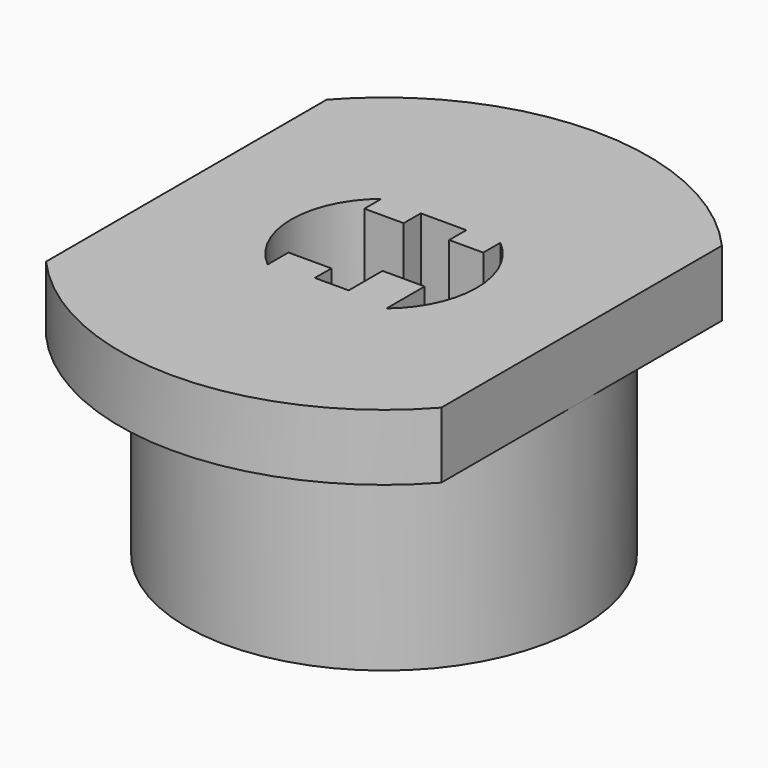
from build123d import *

# Parameters (mm, degrees)
F0_R     = 9.4996
F1_DEPTH = 9.525
F2_R     = 12.7
F2_R_2   = 9.4996
F3_DEPTH = 3.175
F5_DEPTH = 25.4
F7_DEPTH = 25.4
F9_DEPTH = 25.4


with BuildPart() as f1:
    # F0 (on Top) → F1 (new body)
    with BuildSketch(Plane.XY):
        Circle(F0_R)
    extrude(amount=F1_DEPTH)

    # F2 (on face) → F3 (join)
    with BuildSketch(Plane.XY.offset(9.525)):
        Circle(F2_R)
        Circle(F2_R_2, mode=Mode.SUBTRACT)
        Circle(F2_R_2)
    extrude(amount=F3_DEPTH)

    # F4 (on face) → F5 (cut)
    with BuildSketch(Plane.XY.offset(12.7)):
        with BuildLine():
            ThreePointArc((-9.4996, 8.428974), (-12.7, 0), (-9.4996, -8.428974))
            Line((-9.4996, -8.428974), (-9.4996, 8.428974))
        make_face()
        with BuildLine():
            Line((9.4996, 8.428974), (9.4996, -8.428974))
            ThreePointArc((9.4996, -8.428974), (11.872972, -4.508053), (12.7, 0))
            ThreePointArc((12.7, 0), (11.872972, 4.508053), (9.4996, 8.428974))
        make_face()
    extrude(amount=-F5_DEPTH, mode=Mode.SUBTRACT)

    # F6 (on face) → F7 (cut)
    with BuildSketch(Plane.XY.offset(12.7)):
        with BuildLine():
            ThreePointArc((2.8575, -3.421372), (4.037881, -1.888546), (4.4577, 0))
            ThreePointArc((4.4577, 0), (4.037881, 1.888546), (2.8575, 3.421372))
            Line((2.8575, 3.421372), (2.8575, -3.421372))
        make_face()
        with BuildLine():
            Line((-2.8575, -3.421372), (-2.8575, 3.421372))
            ThreePointArc((-2.8575, 3.421372), (-4.4577, 0), (-2.8575, -3.421372))
        make_face()
    extrude(amount=-F7_DEPTH, mode=Mode.SUBTRACT)

    # F8 (on face) → F9 (cut)
    with BuildSketch(Plane(origin=(0, 0, 0), x_dir=(1, 0, 0), z_dir=(0, 0, -1))):
        Polygon((-2.8575, 2.16922), (-2.8575, -2.392801), (-0.969418, -2.392801), (-0.969418, -3.421372), (1.220574, -3.421372), (1.220574, -2.392801), (2.8575, -2.392801), (2.8575, 1.130344), (0.832597, 1.130344), (0.832597, 3.162927), (-0.79347, 3.162927), (-0.79347, 2.16922), align=None)
    extrude(amount=-F9_DEPTH, mode=Mode.SUBTRACT)


solid = f1.part
